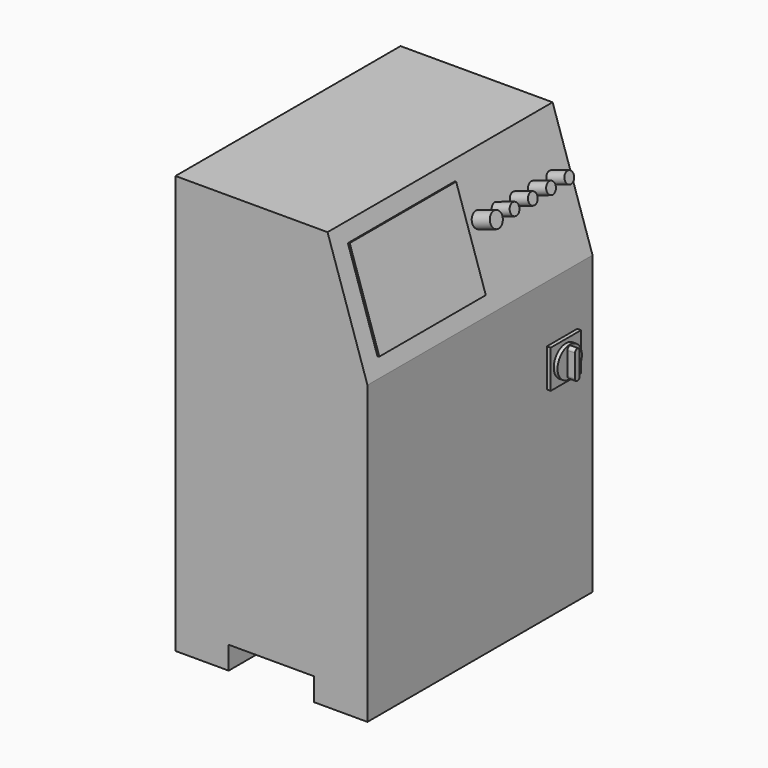
from build123d import *

# Parameters (mm, degrees)
F1_DEPTH = 740
F2_W     = 100
F2_H     = 100
F2_R     = 40
F3_DEPTH = 10
F4_DEPTH = 20
F5_DEPTH = 40
F6_W     = 350
F6_H     = 250
F7_DEPTH = 5
F8_R     = 20
F8_R_2   = 15
F9_DEPTH = 50


with BuildPart() as f1:
    # F0 (on Front) → F1 (new body)
    with BuildSketch(Plane.XZ):
        Polygon((1017.13698, 766.094184), (617.13698, 766.094184), (617.13698, -333.905816), (757.13698, -333.905816), (757.13698, -273.905816), (982.13698, -273.905816), (982.13698, -333.905816), (1122.13698, -333.905816), (1122.13698, 446.094184), align=None)
    extrude(amount=F1_DEPTH)

    # F2 (on face) → F3 (join)
    with BuildSketch(Plane.YZ.offset(1122.13698)):
        with Locations((-100, 246.094184)):
            Rectangle(F2_W, F2_H)
        with Locations((-100, 246.094184)):
            Circle(F2_R, mode=Mode.SUBTRACT)
    extrude(amount=F3_DEPTH)

    # F2 (on face) → F4 (join)
    with BuildSketch(Plane.YZ.offset(1122.13698)):
        with Locations((-100, 246.094184)):
            Circle(F2_R)
        with BuildLine():
            Line((-107.5, 216.094184), (-107.5, 276.094184))
            ThreePointArc((-107.5, 276.094184), (-100, 283.594184), (-92.5, 276.094184))
            Line((-92.5, 276.094184), (-92.5, 216.094184))
            ThreePointArc((-92.5, 216.094184), (-100, 208.594184), (-107.5, 216.094184))
        make_face(mode=Mode.SUBTRACT)
    extrude(amount=F4_DEPTH)


with BuildPart() as f5:
    # F2 (on face) → F5 (new body)
    with BuildSketch(Plane.YZ.offset(1122.13698)):
        with BuildLine():
            ThreePointArc((-92.5, 276.094184), (-100, 283.594184), (-107.5, 276.094184))
            Line((-107.5, 276.094184), (-107.5, 216.094184))
            ThreePointArc((-107.5, 216.094184), (-100, 208.594184), (-92.5, 216.094184))
            Line((-92.5, 216.094184), (-92.5, 276.094184))
        make_face()
    extrude(amount=F5_DEPTH)


with BuildPart() as f7:
    # F6 (on face) → F7 (new body)
    with BuildSketch(Plane(origin=(1145.211297, 0, 375.772457), x_dir=(0, 1, 0), z_dir=(0.950157, 0, 0.31177))):
        with Locations((-515, 242.403745)):
            Rectangle(F6_W, F6_H)
    extrude(amount=F7_DEPTH)


with BuildPart() as f9:
    # F8 (on face) → F9 (new body)
    with BuildSketch(Plane(origin=(1145.211297, 0, 375.772457), x_dir=(0, 1, 0), z_dir=(0.950157, 0, 0.31177))):
        with Locations((-300, 268.352389)):
            Circle(F8_R)
        with Locations((-240, 268.352389)):
            Circle(F8_R_2)
        with Locations((-180, 268.352389)):
            Circle(F8_R_2)
        with Locations((-120, 268.352389)):
            Circle(F8_R_2)
        with Locations((-60, 268.352389)):
            Circle(F8_R_2)
    extrude(amount=F9_DEPTH)


solid = Compound([f1.part, f5.part, f7.part, f9.part])
